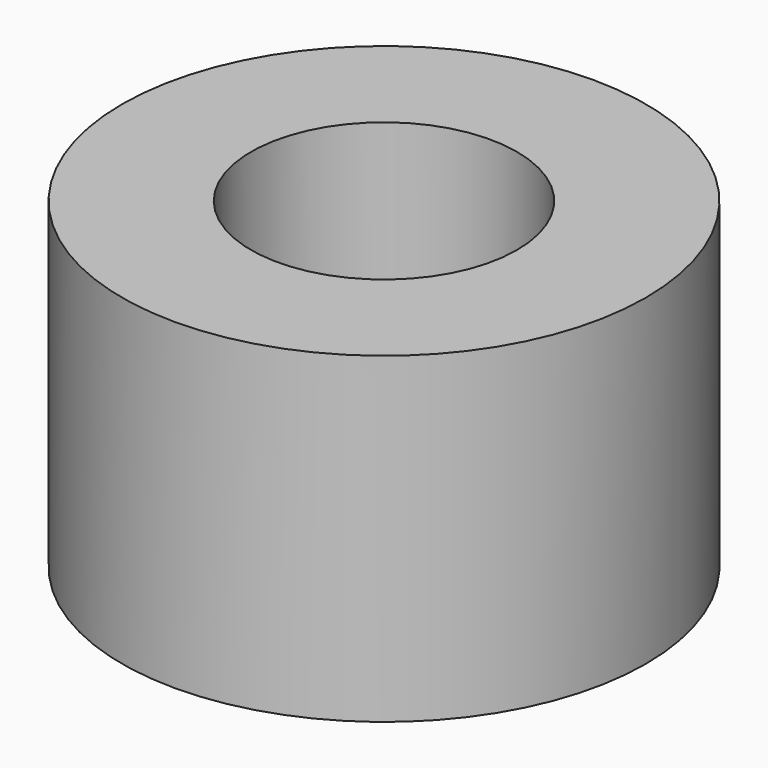
from build123d import *

# Parameters (mm, degrees)
F0_R        = 3.25
F0_R_2      = 1.65
F1_DEPTH    = 0.6
F2_DEPTH    = 2
F2_FACE_R   = 3.25
F2_FACE_R_2 = 1.65
F3_DEPTH    = 4


with BuildPart() as f1:
    # F0 (on Top) → F1 (new body)
    with BuildSketch(Plane.XY):
        Circle(F0_R)
        Circle(F0_R_2, mode=Mode.SUBTRACT)
    extrude(amount=F1_DEPTH)


with BuildPart() as f2:
    # F0 (on Top) → F2 (new body)
    with BuildSketch(Plane.XY):
        Circle(F0_R)
        Circle(F0_R_2, mode=Mode.SUBTRACT)
    extrude(amount=F2_DEPTH)


with BuildPart() as f3:
    # F2_face (on face) → F3 (new body)
    with BuildSketch(Plane(origin=(0, 0, 0), x_dir=(1, 0, 0), z_dir=(0, 0, -1))):
        Circle(F2_FACE_R)
        Circle(F2_FACE_R_2, mode=Mode.SUBTRACT)
    extrude(amount=-F3_DEPTH)


solid = Compound([f1.part, f2.part, f3.part])
